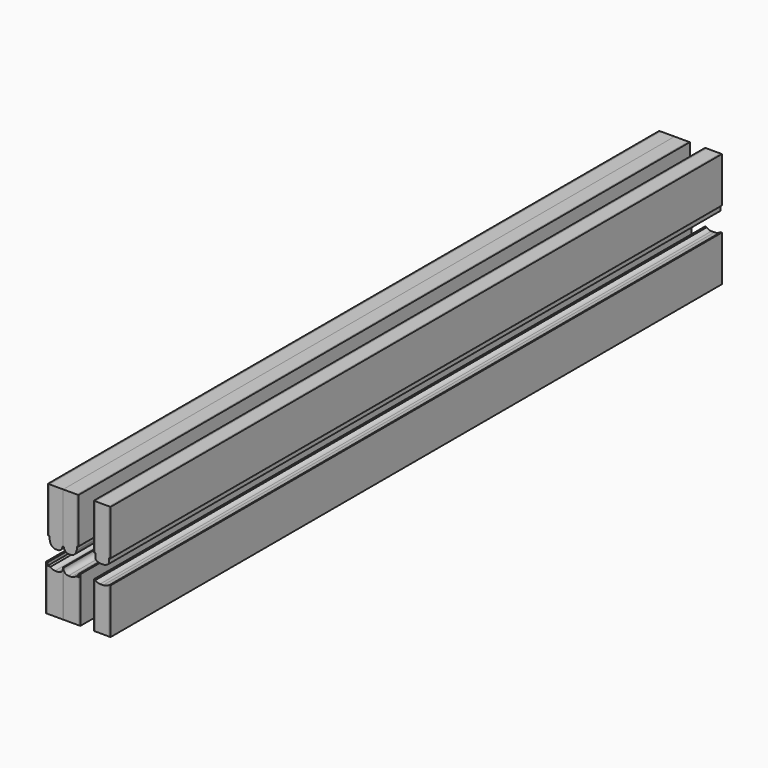
from build123d import *

# Parameters (mm, degrees)
F2_DEPTH = 1000
F3_DEPTH = 1000
F4_DEPTH = 1000


with BuildPart() as f2:
    # F1 (on Front) → F2 (new body)
    with BuildSketch(Plane.XZ):
        with BuildLine():
            Line((0, 72.2142957122), (-18, 72.2142957122))
            Line((-18, 72.2142957122), (-18, 12.6796430446))
            Line((-18, 12.6796430446), (-18, 8))
            Line((-18, 8), (-17.3, 8))
            ThreePointArc((-17.3, 8), (-14.9568542495, 2.3431457505), (-9.3, 0))
            Line((-9.3, 0), (-7.3, 0))
            ThreePointArc((-7.3, 0), (-2.8452272785, 1.8452272785), (-1, 6.3))
            Line((-1, 6.3), (0, 6.3))
            Line((0, 6.3), (0, 72.2142957122))
        make_face()
    extrude(amount=F2_DEPTH)


with BuildPart() as f2b:
    # F1 (on Front) → F2, piece 2 (new body)
    with BuildSketch(Plane.XZ):
        with BuildLine():
            Line((-0.4, -77.7857042878), (-0.4, -18.7857042878))
            ThreePointArc((-0.4, -18.7857042878), (-2.2452272785, -23.2404770092), (-6.7, -25.0857042878))
            Line((-6.7, -25.0857042878), (-10.7, -25.0857042878))
            ThreePointArc((-10.7, -25.0857042878), (-13.9615206488, -24.3906671937), (-16.6563218391, -22.4263250522))
            Line((-16.6563218391, -22.4263250522), (-20.4, -22.4263250522))
            Line((-20.4, -22.4263250522), (-20.4, -77.7857042878))
            Line((-20.4, -77.7857042878), (-0.4, -77.7857042878))
        make_face()
    extrude(amount=F2_DEPTH)


with BuildPart() as f2c:
    # F1 (on Front) → F2, piece 3 (new body)
    with BuildSketch(Plane.XZ):
        with BuildLine():
            Line((60, 72.2142957122), (42, 72.2142957122))
            Line((42, 72.2142957122), (42, 12.6796430446))
            Line((42, 12.6796430446), (42, 6.0090078464))
            ThreePointArc((42, 6.0090078464), (45.2668281726, 3.507846704), (49.2839814408, 2.6187724724))
            Line((49.2839814408, 2.6187724724), (51.2839814408, 2.6187724724))
            ThreePointArc((51.2839814408, 2.6187724724), (55.9733785001, 3.5162492158), (60, 6.0818346423))
            Line((60, 6.0818346423), (60, 12.6796430446))
            Line((60, 12.6796430446), (60, 72.2142957122))
        make_face()
    extrude(amount=F2_DEPTH)


with BuildPart() as f2d:
    # F1 (on Front) → F2, piece 4 (new body)
    with BuildSketch(Plane.XZ):
        with BuildLine():
            Line((42, -18.7510516201), (42, -77.7857042878))
            Line((42, -77.7857042878), (60, -77.7857042878))
            Line((60, -77.7857042878), (60, -18.7510516201))
            Line((60, -18.7510516201), (59.6699790691, -18.7510516201))
            ThreePointArc((59.6699790691, -18.7510516201), (56.1622351503, -20.5130411077), (52.2839814408, -21.1196897043))
            Line((52.2839814408, -21.1196897043), (48.2839814408, -21.1196897043))
            ThreePointArc((48.2839814408, -21.1196897043), (44.9261968616, -20.507870367), (42, -18.7510516201))
        make_face()
    extrude(amount=F2_DEPTH)


with BuildPart() as f3:
    # F1 (on Front) → F3 (new body)
    with BuildSketch(Plane.XZ):
        with BuildLine():
            ThreePointArc((6.7, -25.0857042878), (2.2452272785, -23.2404770092), (0.4, -18.7857042878))
            Line((0.4, -18.7857042878), (0.4, -77.7857042878))
            Line((0.4, -77.7857042878), (20.4, -77.7857042878))
            Line((20.4, -77.7857042878), (20.4, -22.4263250522))
            Line((20.4, -22.4263250522), (16.6563218391, -22.4263250522))
            ThreePointArc((16.6563218391, -22.4263250522), (13.9615206488, -24.3906671937), (10.7, -25.0857042878))
            Line((10.7, -25.0857042878), (6.7, -25.0857042878))
        make_face()
    extrude(amount=F3_DEPTH)


with BuildPart() as f3b:
    # F1 (on Front) → F3, piece 2 (new body)
    with BuildSketch(Plane.XZ):
        with BuildLine():
            Line((18, 72.2142957122), (0, 72.2142957122))
            Line((0, 72.2142957122), (0, 6.3))
            Line((0, 6.3), (1, 6.3))
            ThreePointArc((1, 6.3), (2.8452272785, 1.8452272785), (7.3, 0))
            Line((7.3, 0), (9.3, 0))
            ThreePointArc((9.3, 0), (14.9568542495, 2.3431457505), (17.3, 8))
            Line((17.3, 8), (18, 8))
            Line((18, 8), (18, 12.6796430446))
            Line((18, 12.6796430446), (18, 72.2142957122))
        make_face()
    extrude(amount=F3_DEPTH)


with BuildPart() as f4:
    # F1 (on Front) → F4 (new body)
    with BuildSketch(Plane.XZ):
        with BuildLine():
            Line((-22.4, -77.7857042878), (-20.4, -77.7857042878))
            Line((-20.4, -77.7857042878), (-20.4, -22.4263250522))
            Line((-20.4, -22.4263250522), (-20.4, -18.7510516201))
            ThreePointArc((-20.4, -18.7510516201), (-20.5464466094, -18.3974982295), (-20.9, -18.2510516201))
            Line((-20.9, -18.2510516201), (-22.4, -18.2510516201))
            Line((-22.4, -18.2510516201), (-22.4, -77.7857042878))
        make_face()
    extrude(amount=F4_DEPTH)


with BuildPart() as f4b:
    # F1 (on Front) → F4, piece 2 (new body)
    with BuildSketch(Plane.XZ):
        Polygon((0.4, -17.7857042878), (-0.4, -17.7857042878), (-0.4, -18.7857042878), (-0.4, -77.7857042878), (0.4, -77.7857042878), (0.4, -18.7857042878), align=None)
    extrude(amount=F4_DEPTH)


with BuildPart() as f4c:
    # F1 (on Front) → F4, piece 3 (new body)
    with BuildSketch(Plane.XZ):
        with BuildLine():
            Line((20.4, -22.4263250522), (20.4, -77.7857042878))
            Line((20.4, -77.7857042878), (22.4, -77.7857042878))
            Line((22.4, -77.7857042878), (22.4, -18.2510516201))
            Line((22.4, -18.2510516201), (20.9, -18.2510516201))
            ThreePointArc((20.9, -18.2510516201), (20.5464466094, -18.3974982295), (20.4, -18.7510516201))
            Line((20.4, -18.7510516201), (20.4, -22.4263250522))
        make_face()
    extrude(amount=F4_DEPTH)


with BuildPart() as f4d:
    # F1 (on Front) → F4, piece 4 (new body)
    with BuildSketch(Plane.XZ):
        with BuildLine():
            Line((-18, 12.6796430446), (-18, 72.2142957122))
            Line((-18, 72.2142957122), (-20, 72.2142957122))
            Line((-20, 72.2142957122), (-20, 13.1796430446))
            ThreePointArc((-20, 13.1796430446), (-19.8535533906, 12.826089654), (-19.5, 12.6796430446))
            Line((-19.5, 12.6796430446), (-18, 12.6796430446))
        make_face()
    extrude(amount=F4_DEPTH)


with BuildPart() as f4e:
    # F1 (on Front) → F4, piece 5 (new body)
    with BuildSketch(Plane.XZ):
        with BuildLine():
            Line((20, 72.2142957122), (18, 72.2142957122))
            Line((18, 72.2142957122), (18, 12.6796430446))
            Line((18, 12.6796430446), (19.5, 12.6796430446))
            ThreePointArc((19.5, 12.6796430446), (19.8535533906, 12.826089654), (20, 13.1796430446))
            Line((20, 13.1796430446), (20, 72.2142957122))
        make_face()
    extrude(amount=F4_DEPTH)


with BuildPart() as f4f:
    # F1 (on Front) → F4, piece 6 (new body)
    with BuildSketch(Plane.XZ):
        with BuildLine():
            Line((62, 72.2142957122), (60, 72.2142957122))
            Line((60, 72.2142957122), (60, 12.6796430446))
            Line((60, 12.6796430446), (61.5, 12.6796430446))
            ThreePointArc((61.5, 12.6796430446), (61.8535533906, 12.826089654), (62, 13.1796430446))
            Line((62, 13.1796430446), (62, 72.2142957122))
        make_face()
    extrude(amount=F4_DEPTH)


with BuildPart() as f4g:
    # F1 (on Front) → F4, piece 7 (new body)
    with BuildSketch(Plane.XZ):
        with BuildLine():
            Line((42, 12.6796430446), (42, 72.2142957122))
            Line((42, 72.2142957122), (40, 72.2142957122))
            Line((40, 72.2142957122), (40, 13.1796430446))
            ThreePointArc((40, 13.1796430446), (40.1464466094, 12.826089654), (40.5, 12.6796430446))
            Line((40.5, 12.6796430446), (42, 12.6796430446))
        make_face()
    extrude(amount=F4_DEPTH)


with BuildPart() as f4h:
    # F1 (on Front) → F4, piece 8 (new body)
    with BuildSketch(Plane.XZ):
        with BuildLine():
            Line((40, -77.7857042878), (42, -77.7857042878))
            Line((42, -77.7857042878), (42, -18.7510516201))
            ThreePointArc((42, -18.7510516201), (41.8535533906, -18.3974982295), (41.5, -18.2510516201))
            Line((41.5, -18.2510516201), (40, -18.2510516201))
            Line((40, -18.2510516201), (40, -77.7857042878))
        make_face()
    extrude(amount=F4_DEPTH)


with BuildPart() as f4i:
    # F1 (on Front) → F4, piece 9 (new body)
    with BuildSketch(Plane.XZ):
        with BuildLine():
            Line((60, -18.7510516201), (60, -77.7857042878))
            Line((60, -77.7857042878), (62, -77.7857042878))
            Line((62, -77.7857042878), (62, -18.2510516201))
            Line((62, -18.2510516201), (60.5, -18.2510516201))
            ThreePointArc((60.5, -18.2510516201), (60.1464466094, -18.3974982295), (60, -18.7510516201))
        make_face()
    extrude(amount=F4_DEPTH)


solid = Compound([f2.part, f2b.part, f2c.part, f2d.part, f3.part, f3b.part, f4.part, f4b.part, f4c.part, f4d.part, f4e.part, f4f.part, f4g.part, f4h.part, f4i.part])
